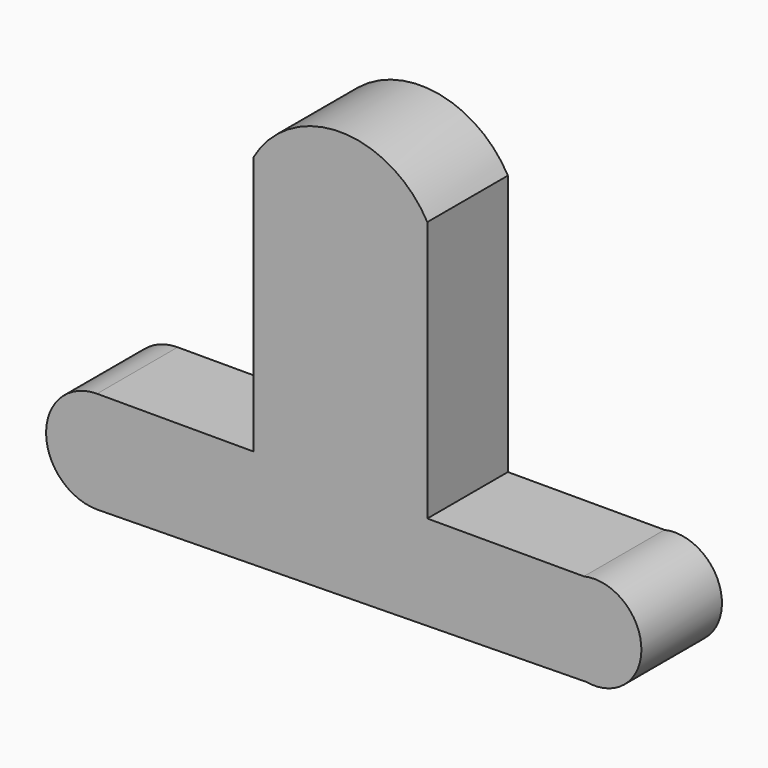
from build123d import *

# Parameters (mm, degrees)
F1_DEPTH = 25.4


with BuildPart() as f1:
    # F0 (on Front) → F1 (new body)
    with BuildSketch(Plane.XZ):
        with BuildLine():
            Line((-26.635719, 56.048136), (-26.635719, -9.358496))
            Line((-26.635719, -9.358496), (-59.750397, -9.358496))
            Line((-59.750397, -9.358496), (-66.126518, -9.358496))
            ThreePointArc((-66.126518, -9.358496), (-78.981595, -22.213573), (-66.126518, -35.06865))
            Line((-66.126518, -35.06865), (57.282224, -33.21752))
            ThreePointArc((57.282224, -33.21752), (71.156125, -21.220004), (56.665178, -9.97554))
            Line((56.665178, -9.97554), (17.174384, -9.97554))
            Line((17.174384, -9.97554), (17.174384, 55.842455))
            ThreePointArc((17.174384, 55.842455), (-4.670679, 68.722974), (-26.635719, 56.048136))
        make_face()
    extrude(amount=F1_DEPTH)


solid = f1.part
